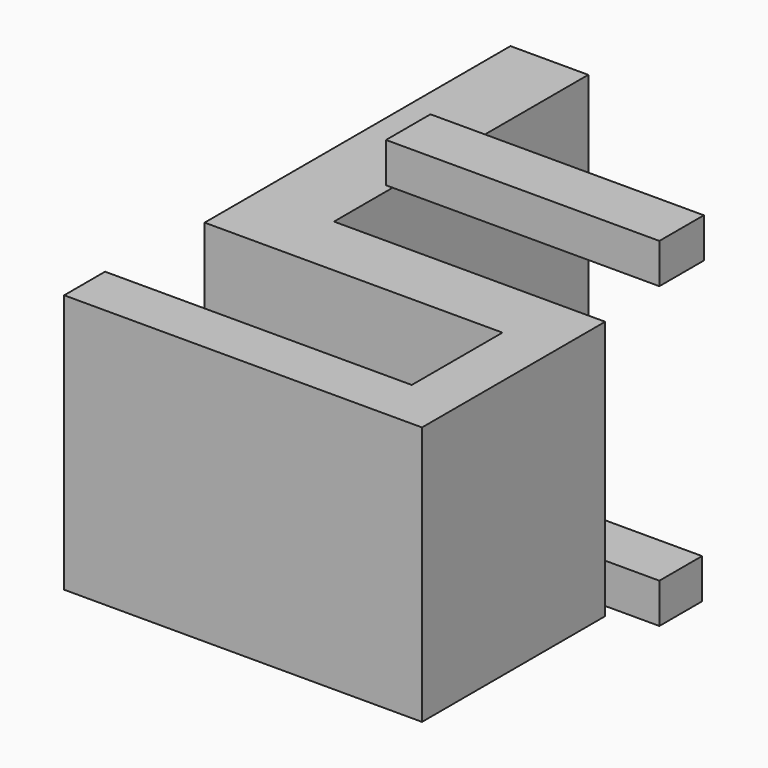
from build123d import *

# Parameters (mm, degrees)
F1_DEPTH = 52
F3_W     = 54.390293
F3_H     = 10.69973
F4_DEPTH = 8
F5_W     = 54.836117
F5_H     = 11.145552
F6_DEPTH = 8


with BuildPart() as f1:
    # F0 (on Top) → F1 (new body)
    with BuildSketch(Plane.XY):
        Polygon((-31.876273, 43.913472), (-47.480047, 43.913472), (-47.480047, -32.767925), (-43.021828, -32.767925), (12.260112, -32.767925), (12.260112, -55.504851), (-49.263336, -55.504851), (-49.263336, -65.758757), (-43.467648, -65.758757), (22.514023, -65.758757), (22.514023, -32.767925), (22.514023, -19.839084), (-31.876273, -19.839084), align=None)
    extrude(amount=F1_DEPTH)

    # F3 (on Top) → F4 (join)
    with BuildSketch(Plane.XY):
        with Locations((-5.572776, 0.22291)):
            Rectangle(F3_W, F3_H)
    extrude(amount=-F4_DEPTH)

    # F5 (on offset) → F6 (join)
    with BuildSketch(Plane.XY.offset(52)):
        with Locations((-5.795691, 0.445822)):
            Rectangle(F5_W, F5_H)
    extrude(amount=F6_DEPTH)


solid = f1.part
